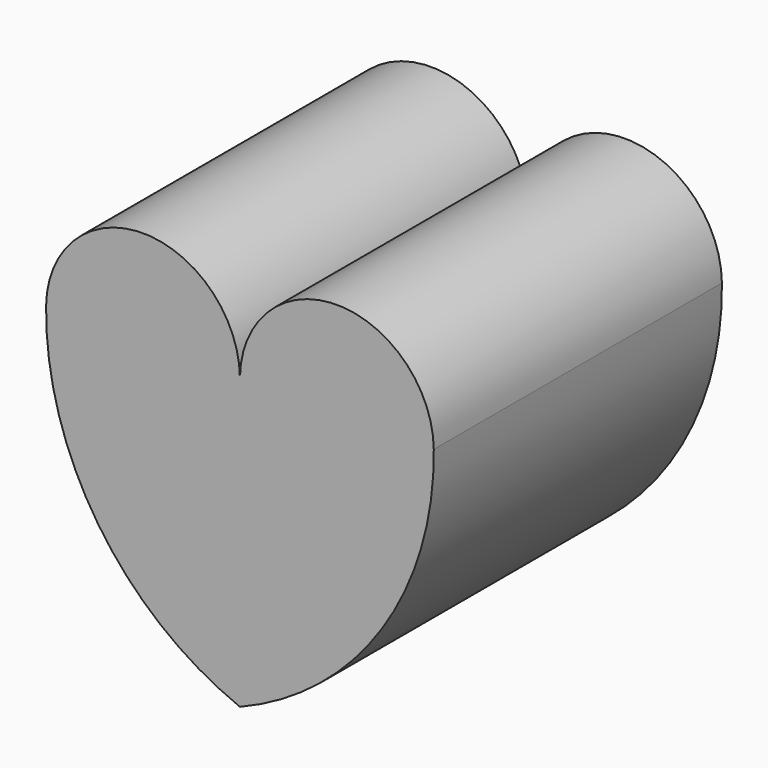
from build123d import *

# Parameters (mm, degrees)
F1_DEPTH      = 25.4
F1_DEPTH_BACK = 25.4


with BuildPart() as f1:
    # F0 (on Front) → F1 (new body, two sides)
    with BuildSketch(Plane.XZ) as f1_sk:
        with BuildLine():
            ThreePointArc((0, 0), (-13.670773, 13.50563), (-27.341546, 0))
            ThreePointArc((-27.341546, 0), (-20.011739, -24.676403), (0, -40.868416))
            ThreePointArc((0, -40.868416), (20.011739, -24.676403), (27.341546, 0))
            ThreePointArc((27.341546, 0), (13.670773, 13.50563), (0, 0))
        make_face()
    extrude(amount=F1_DEPTH)
    extrude(f1_sk.sketch, amount=-F1_DEPTH_BACK)


solid = f1.part
